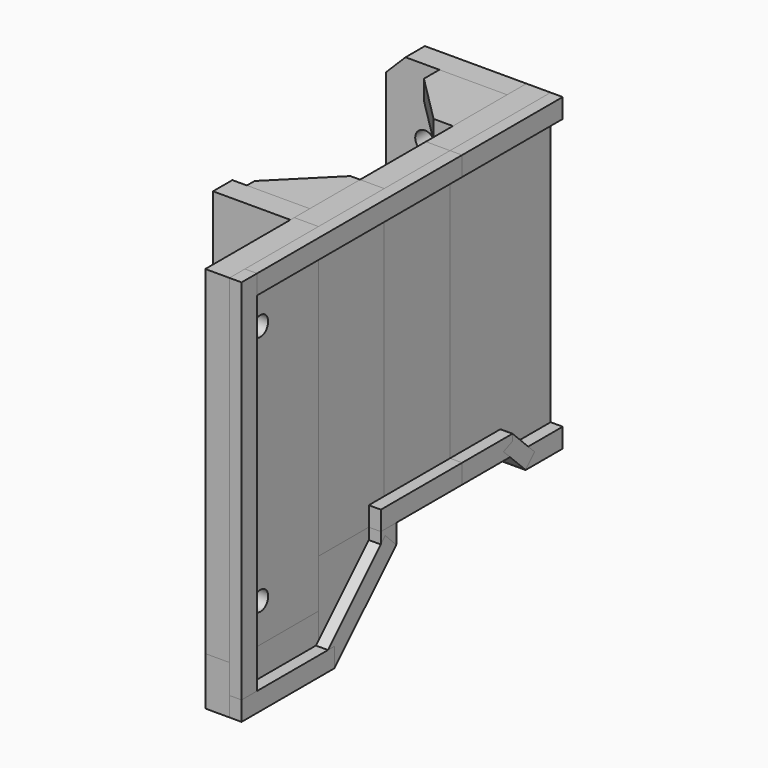
from build123d import *

# Parameters (mm, degrees)
RECTANGLE004_W                               = 17
RECTANGLE004_H                               = 60
EXTRUDE001_DEPTH                             = 5
RECTANGLE003_W                               = 17
RECTANGLE003_H                               = 60
EXTRUDE002_DEPTH                             = 5
RECTANGLE001_W                               = 23
RECTANGLE001_H                               = 10
EXTRUDE003_DEPTH                             = 5
RECTANGLE002_W                               = 17
RECTANGLE002_H                               = 20
EXTRUDE004_DEPTH                             = 5
CHAMFER_SIZE                                 = 16
RECTANGLE005_W                               = 57
RECTANGLE005_H                               = 4
EXTRUDE005_DEPTH                             = 2.5
RECTANGLE006_W                               = 4
RECTANGLE006_H                               = 80
EXTRUDE006_DEPTH                             = 2.5
RECTANGLE007_W                               = 24
RECTANGLE007_H                               = 4
EXTRUDE007_DEPTH                             = 2.5
RECTANGLE008_AS_DRAWN_W                      = 22.6
RECTANGLE008_AS_DRAWN_H                      = 4
EXTRUDE008_DEPTH                             = 2.5
EXTRUDE008_ONTO_RECTANGLE008_ROLL_ANGLE      = 89.999906
EXTRUDE008_ONTO_RECTANGLE008_PITCH_ANGLE     = -44.999767
EXTRUDE008_ONTO_RECTANGLE008_PLACEMENT_ANGLE = 89.999906
RECTANGLE009_W                               = 4
RECTANGLE009_H                               = 4
EXTRUDE009_DEPTH                             = 2.5
RECTANGLE010_W                               = 21
RECTANGLE010_H                               = 4
EXTRUDE010_DEPTH                             = 2.5
RECTANGLE011_W                               = 5.002663
RECTANGLE011_H                               = 60
EXTRUDE011_DEPTH                             = 16
RECTANGLE012_W                               = 13
RECTANGLE012_H                               = 5
EXTRUDE012_DEPTH                             = 13
CHAMFER001_SIZE                              = 11
RECTANGLE013_W                               = 13
RECTANGLE013_H                               = 5
EXTRUDE013_DEPTH                             = 13
CHAMFER002_SIZE                              = 11
RECTANGLE014_W                               = 4
RECTANGLE014_H                               = 49.996631
EXTRUDE014_DEPTH                             = 4
CHAMFER003_SIZE                              = 2.5
RECTANGLE015_W                               = 5
RECTANGLE015_H                               = 16
EXTRUDE015_DEPTH                             = 16
CHAMFER004_SIZE                              = 14
CIRCLE002_R                                  = 2
EXTRUDE017_DEPTH                             = 5
CIRCLE003_R                                  = 2
EXTRUDE016_DEPTH                             = 5
RECTANGLE_W                                  = 23
RECTANGLE_H                                  = 70
EXTRUDE_DEPTH                                = 5
RECTANGLE016_W                               = 5
RECTANGLE016_H                               = 60
EXTRUDE018_DEPTH                             = 26
RECTANGLE017_W                               = 2.5
RECTANGLE017_H                               = 4
EXTRUDE019_DEPTH                             = 26
RECTANGLE018_W                               = 2.5
RECTANGLE018_H                               = 4
EXTRUDE020_DEPTH                             = 13
RECTANGLE020_AS_DRAWN_W                      = 8
RECTANGLE020_AS_DRAWN_H                      = 3.3
EXTRUDE021_DEPTH                             = 2.5
EXTRUDE021_DEPTH_BACK                        = 5
EXTRUDE021_ONTO_RECTANGLE020_ROLL_ANGLE      = 89.81264
EXTRUDE021_ONTO_RECTANGLE020_PITCH_ANGLE     = 44.626764
EXTRUDE021_ONTO_RECTANGLE020_PLACEMENT_ANGLE = 89.81264
RECTANGLE019_W                               = 9.6
RECTANGLE019_H                               = 4
EXTRUDE022_DEPTH                             = 2.5
EXTRUDE022_DEPTH_BACK                        = 5
RECTANGLE022_W                               = 14
RECTANGLE022_H                               = 4
EXTRUDE024_DEPTH                             = 14
CHAMFER006_SIZE                              = 10
RECTANGLE023_W                               = 14
RECTANGLE023_H                               = 4
EXTRUDE025_DEPTH                             = 14
CHAMFER007_SIZE                              = 10
CIRCLE005_R                                  = 2
EXTRUDE029_DEPTH                             = 5
CIRCLE006_R                                  = 2
EXTRUDE028_DEPTH                             = 5
CIRCLE007_R                                  = 2
EXTRUDE027_DEPTH                             = 5
CIRCLE004_R                                  = 2
EXTRUDE026_DEPTH                             = 5
RECTANGLE021_W                               = 5
RECTANGLE021_H                               = 64
EXTRUDE023_DEPTH                             = 25
CHAMFER005_SIZE                              = 4


with BuildPart() as extrude001:
    # Rectangle004 → Extrude001 (new body)
    with BuildSketch(Plane(origin=(0, -17, 10), x_dir=(0, 1, 0), z_dir=(1, 0, 0))):
        with Locations((8.5, 30)):
            Rectangle(RECTANGLE004_W, RECTANGLE004_H)
    extrude(amount=EXTRUDE001_DEPTH)


with BuildPart() as extrude002:
    # Rectangle003 → Extrude002 (new body)
    with BuildSketch(Plane(origin=(0, 0, 10), x_dir=(0, 1, 0), z_dir=(1, 0, 0))):
        with Locations((8.5, 30)):
            Rectangle(RECTANGLE003_W, RECTANGLE003_H)
    extrude(amount=EXTRUDE002_DEPTH)


with BuildPart() as extrude003:
    # Rectangle001 → Extrude003 (new body)
    with BuildSketch(Plane(origin=(0, -40, -10), x_dir=(0, 1, 0), z_dir=(1, 0, 0))):
        with Locations((11.5, 5)):
            Rectangle(RECTANGLE001_W, RECTANGLE001_H)
    extrude(amount=EXTRUDE003_DEPTH)


with BuildPart() as chamfer_body:
    # Rectangle002 → Extrude004 (new body)
    with BuildSketch(Plane(origin=(0, -17, -10), x_dir=(0, 1, 0), z_dir=(1, 0, 0))):
        with Locations((8.5, 10)):
            Rectangle(RECTANGLE002_W, RECTANGLE002_H)
    extrude(amount=EXTRUDE004_DEPTH)

    # Chamfer
    chamfer_edges = [chamfer_body.edges().sort_by_distance(p)[0] for p in [
        (2.5, 0, -10),
    ]]
    chamfer(chamfer_edges, length=CHAMFER_SIZE)


with BuildPart() as extrude005:
    # Rectangle005 → Extrude005 (new body)
    with BuildSketch(Plane(origin=(5, -40, 66), x_dir=(0, 1, 0), z_dir=(1, 0, 0))):
        with Locations((28.5, 2)):
            Rectangle(RECTANGLE005_W, RECTANGLE005_H)
    extrude(amount=EXTRUDE005_DEPTH)


with BuildPart() as extrude006:
    # Rectangle006 → Extrude006 (new body)
    with BuildSketch(Plane(origin=(5, -40, -10), x_dir=(0, 1, 0), z_dir=(1, 0, 0))):
        with Locations((2, 40)):
            Rectangle(RECTANGLE006_W, RECTANGLE006_H)
    extrude(amount=EXTRUDE006_DEPTH)


with BuildPart() as extrude007:
    # Rectangle007 → Extrude007 (new body)
    with BuildSketch(Plane(origin=(5, -40, -10), x_dir=(0, 1, 0), z_dir=(1, 0, 0))):
        with Locations((12, 2)):
            Rectangle(RECTANGLE007_W, RECTANGLE007_H)
    extrude(amount=EXTRUDE007_DEPTH)


with BuildPart() as extrude008:
    # Rectangle008 as drawn → Extrude008 (new)
    with BuildSketch(Plane.XY):
        with Locations((11.3, 2)):
            Rectangle(RECTANGLE008_AS_DRAWN_W, RECTANGLE008_AS_DRAWN_H)
    extrude(amount=EXTRUDE008_DEPTH)


with BuildPart() as extrude008_1:
    # Extrude008 onto Rectangle008 roll: moved
    add(extrude008.part.rotate(Axis((0, 0, 0), (1, 0, 0)), EXTRUDE008_ONTO_RECTANGLE008_ROLL_ANGLE))


with BuildPart() as extrude008_2:
    # Extrude008 onto Rectangle008 pitch: moved
    add(extrude008_1.part.rotate(Axis((0, 0, 0), (0, 1, 0)), EXTRUDE008_ONTO_RECTANGLE008_PITCH_ANGLE))


with BuildPart() as extrude008_3:
    # Extrude008 onto Rectangle008 placement: moved
    add(extrude008_2.part.moved(Location((5, -16, -10))).rotate(Axis((5, -16, -10), (0, 0, 1)), EXTRUDE008_ONTO_RECTANGLE008_PLACEMENT_ANGLE))


with BuildPart() as extrude009:
    # Rectangle009 → Extrude009 (new body)
    with BuildSketch(Plane(origin=(5, -4, 6), x_dir=(0, 1, 0), z_dir=(1, 0, 0))):
        with Locations((2, 2)):
            Rectangle(RECTANGLE009_W, RECTANGLE009_H)
    extrude(amount=EXTRUDE009_DEPTH)


with BuildPart() as extrude010:
    # Rectangle010 → Extrude010 (new body)
    with BuildSketch(Plane(origin=(5, -4, 10), x_dir=(0, 1, 0), z_dir=(1, 0, 0))):
        with Locations((10.5, 2)):
            Rectangle(RECTANGLE010_W, RECTANGLE010_H)
    extrude(amount=EXTRUDE010_DEPTH)


with BuildPart() as extrude011:
    # Rectangle011 → Extrude011 (new body)
    with BuildSketch(Plane(origin=(0, -13, 10), x_dir=(0, -1, 0), z_dir=(-1, 0, 0))):
        with Locations((2.501332, 30)):
            Rectangle(RECTANGLE011_W, RECTANGLE011_H)
    extrude(amount=EXTRUDE011_DEPTH)


with BuildPart() as chamfer001:
    # Rectangle012 → Extrude012 (new body)
    with BuildSketch(Plane(origin=(0, 0, 63), x_dir=(0, -1, 0), z_dir=(-1, 0, 0))):
        with Locations((6.5, 2.5)):
            Rectangle(RECTANGLE012_W, RECTANGLE012_H)
    extrude(amount=EXTRUDE012_DEPTH)

    # Chamfer001
    chamfer001_edges = [chamfer001.edges().sort_by_distance(p)[0] for p in [
        (-13, 0, 65.5),
    ]]
    chamfer(chamfer001_edges, length=CHAMFER001_SIZE)


with BuildPart() as chamfer001_1:
    # Chamfer001 placement: moved
    add(chamfer001.part.moved(Location((0, 0, 2))))


with BuildPart() as chamfer002:
    # Rectangle013 → Extrude013 (new body)
    with BuildSketch(Plane(origin=(0, 0, 63), x_dir=(0, -1, 0), z_dir=(-1, 0, 0))):
        with Locations((6.5, 2.5)):
            Rectangle(RECTANGLE013_W, RECTANGLE013_H)
    extrude(amount=EXTRUDE013_DEPTH)

    # Chamfer002
    chamfer002_edges = [chamfer002.edges().sort_by_distance(p)[0] for p in [
        (-13, 0, 65.5),
    ]]
    chamfer(chamfer002_edges, length=CHAMFER002_SIZE)


with BuildPart() as chamfer002_1:
    # Chamfer002 placement: moved
    add(chamfer002.part.moved(Location((0, 0, -53))))


with BuildPart() as chamfer003:
    # Rectangle014 → Extrude014 (new body)
    with BuildSketch(Plane(origin=(0, -9, 15), x_dir=(0, -1, 0), z_dir=(-1, 0, 0))):
        with Locations((2, 24.998316)):
            Rectangle(RECTANGLE014_W, RECTANGLE014_H)
    extrude(amount=EXTRUDE014_DEPTH)

    # Chamfer003
    chamfer003_edges = [chamfer003.edges().sort_by_distance(p)[0] for p in [
        (-4, -9, 39.998315),
    ]]
    chamfer(chamfer003_edges, length=CHAMFER003_SIZE)


with BuildPart() as chamfer004:
    # Rectangle015 → Extrude015 (new body)
    with BuildSketch(Plane(origin=(0, -13, -6), x_dir=(0, -1, 0), z_dir=(-1, 0, 0))):
        with Locations((2.5, 8)):
            Rectangle(RECTANGLE015_W, RECTANGLE015_H)
    extrude(amount=EXTRUDE015_DEPTH)

    # Chamfer004
    chamfer004_edges = [chamfer004.edges().sort_by_distance(p)[0] for p in [
        (-16, -15.5, -6),
    ]]
    chamfer(chamfer004_edges, length=CHAMFER004_SIZE)


with BuildPart() as extrude017:
    # Circle002 → Extrude017 (new body)
    with BuildSketch(Plane(origin=(0, -32, 58), x_dir=(0, 1, 0), z_dir=(1, 0, 0))):
        Circle(CIRCLE002_R)
    extrude(amount=EXTRUDE017_DEPTH)


with BuildPart() as extrude016:
    # Circle003 → Extrude016 (new body)
    with BuildSketch(Plane(origin=(0, -32, 8), x_dir=(0, 1, 0), z_dir=(1, 0, 0))):
        Circle(CIRCLE003_R)
    extrude(amount=EXTRUDE016_DEPTH)


with BuildPart() as cut001:
    # Rectangle → Extrude (new body)
    with BuildSketch(Plane(origin=(0, -40, 0), x_dir=(0, 1, 0), z_dir=(1, 0, 0))):
        with Locations((11.5, 35)):
            Rectangle(RECTANGLE_W, RECTANGLE_H)
    extrude(amount=EXTRUDE_DEPTH)

    # Cut: cut Extrude016
    add(extrude016.part, mode=Mode.SUBTRACT)

    # Cut001: cut Extrude017
    add(extrude017.part, mode=Mode.SUBTRACT)


with BuildPart() as extrude018:
    # Rectangle016 → Extrude018 (new body)
    with BuildSketch(Plane(origin=(5, 17, 10), x_dir=(-1, 0, 0), z_dir=(0, 1, 0))):
        with Locations((2.5, 30)):
            Rectangle(RECTANGLE016_W, RECTANGLE016_H)
    extrude(amount=EXTRUDE018_DEPTH)


with BuildPart() as extrude019:
    # Rectangle017 → Extrude019 (new body)
    with BuildSketch(Plane(origin=(7.5, 17, 66), x_dir=(-1, 0, 0), z_dir=(0, 1, 0))):
        with Locations((1.25, 2)):
            Rectangle(RECTANGLE017_W, RECTANGLE017_H)
    extrude(amount=EXTRUDE019_DEPTH)


with BuildPart() as extrude020:
    # Rectangle018 → Extrude020 (new body)
    with BuildSketch(Plane(origin=(7.5, 17, 10), x_dir=(-1, 0, 0), z_dir=(0, 1, 0))):
        with Locations((1.25, 2)):
            Rectangle(RECTANGLE018_W, RECTANGLE018_H)
    extrude(amount=EXTRUDE020_DEPTH)


with BuildPart() as extrude021:
    # Rectangle020 as drawn → Extrude021 (new, two sides)
    with BuildSketch(Plane.XY) as extrude021_sk:
        with Locations((4, 1.65)):
            Rectangle(RECTANGLE020_AS_DRAWN_W, RECTANGLE020_AS_DRAWN_H)
    extrude(amount=EXTRUDE021_DEPTH)
    extrude(extrude021_sk.sketch, amount=-EXTRUDE021_DEPTH_BACK)


with BuildPart() as extrude021_1:
    # Extrude021 onto Rectangle020 roll: moved
    add(extrude021.part.rotate(Axis((0, 0, 0), (1, 0, 0)), EXTRUDE021_ONTO_RECTANGLE020_ROLL_ANGLE))


with BuildPart() as extrude021_2:
    # Extrude021 onto Rectangle020 pitch: moved
    add(extrude021_1.part.rotate(Axis((0, 0, 0), (0, 1, 0)), EXTRUDE021_ONTO_RECTANGLE020_PITCH_ANGLE))


with BuildPart() as extrude021_3:
    # Extrude021 onto Rectangle020 placement: moved
    add(extrude021_2.part.moved(Location((5, 27.7, 11.65))).rotate(Axis((5, 27.7, 11.65), (0, 0, 1)), EXTRUDE021_ONTO_RECTANGLE020_PLACEMENT_ANGLE))


with BuildPart() as extrude022:
    # Rectangle019 → Extrude022 (new body, two sides)
    with BuildSketch(Plane(origin=(5, 33.4, 6), x_dir=(0, 1, 0), z_dir=(1, 0, 0))) as extrude022_sk:
        with Locations((4.8, 2)):
            Rectangle(RECTANGLE019_W, RECTANGLE019_H)
    extrude(amount=EXTRUDE022_DEPTH)
    extrude(extrude022_sk.sketch, amount=-EXTRUDE022_DEPTH_BACK)


with BuildPart() as chamfer006:
    # Rectangle022 → Extrude024 (new body)
    with BuildSketch(Plane(origin=(0, 38, 66), x_dir=(0, -1, 0), z_dir=(-1, 0, 0))):
        with Locations((7, 2)):
            Rectangle(RECTANGLE022_W, RECTANGLE022_H)
    extrude(amount=EXTRUDE024_DEPTH)

    # Chamfer006
    chamfer006_edges = [chamfer006.edges().sort_by_distance(p)[0] for p in [
        (-14, 24, 68),
    ]]
    chamfer(chamfer006_edges, length=CHAMFER006_SIZE)


with BuildPart() as chamfer007:
    # Rectangle023 → Extrude025 (new body)
    with BuildSketch(Plane(origin=(0, 38, 66), x_dir=(0, -1, 0), z_dir=(-1, 0, 0))):
        with Locations((7, 2)):
            Rectangle(RECTANGLE023_W, RECTANGLE023_H)
    extrude(amount=EXTRUDE025_DEPTH)

    # Chamfer007
    chamfer007_edges = [chamfer007.edges().sort_by_distance(p)[0] for p in [
        (-14, 24, 68),
    ]]
    chamfer(chamfer007_edges, length=CHAMFER007_SIZE)


with BuildPart() as chamfer007_1:
    # Chamfer007 placement: moved
    add(chamfer007.part.moved(Location((0, 0, -56))))


with BuildPart() as extrude029:
    # Circle005 → Extrude029 (new body)
    with BuildSketch(Plane(origin=(-17, 43, 56), x_dir=(1, 0, 0), z_dir=(0, -1, 0))):
        Circle(CIRCLE005_R)
    extrude(amount=EXTRUDE029_DEPTH)


with BuildPart() as extrude028:
    # Circle006 → Extrude028 (new body)
    with BuildSketch(Plane(origin=(-7, 43, 56), x_dir=(1, 0, 0), z_dir=(0, -1, 0))):
        Circle(CIRCLE006_R)
    extrude(amount=EXTRUDE028_DEPTH)


with BuildPart() as extrude027:
    # Circle007 → Extrude027 (new body)
    with BuildSketch(Plane(origin=(-7, 43, 26), x_dir=(1, 0, 0), z_dir=(0, -1, 0))):
        Circle(CIRCLE007_R)
    extrude(amount=EXTRUDE027_DEPTH)


with BuildPart() as extrude026:
    # Circle004 → Extrude026 (new body)
    with BuildSketch(Plane(origin=(-17, 43, 26), x_dir=(1, 0, 0), z_dir=(0, -1, 0))):
        Circle(CIRCLE004_R)
    extrude(amount=EXTRUDE026_DEPTH)


with BuildPart() as cut005:
    # Rectangle021 → Extrude023 (new body)
    with BuildSketch(Plane(origin=(0, 38, 6), x_dir=(0, 1, 0), z_dir=(1, 0, 0))):
        with Locations((2.5, 32)):
            Rectangle(RECTANGLE021_W, RECTANGLE021_H)
    extrude(amount=-EXTRUDE023_DEPTH)

    # Chamfer005
    chamfer005_edges = [cut005.edges().sort_by_distance(p)[0] for p in [
        (-25, 40.5, 70),
    ]]
    chamfer(chamfer005_edges, length=CHAMFER005_SIZE)

    # Cut002: cut Extrude026
    add(extrude026.part, mode=Mode.SUBTRACT)

    # Cut003: cut Extrude027
    add(extrude027.part, mode=Mode.SUBTRACT)

    # Cut004: cut Extrude028
    add(extrude028.part, mode=Mode.SUBTRACT)

    # Cut005: cut Extrude029
    add(extrude029.part, mode=Mode.SUBTRACT)


solid = Compound([extrude001.part, extrude002.part, extrude003.part, chamfer_body.part, extrude005.part, extrude006.part, extrude007.part, extrude008_3.part, extrude009.part, extrude010.part, extrude011.part, chamfer001_1.part, chamfer002_1.part, chamfer003.part, chamfer004.part, cut001.part, extrude018.part, extrude019.part, extrude020.part, extrude021_3.part, extrude022.part, chamfer006.part, chamfer007_1.part, cut005.part])
